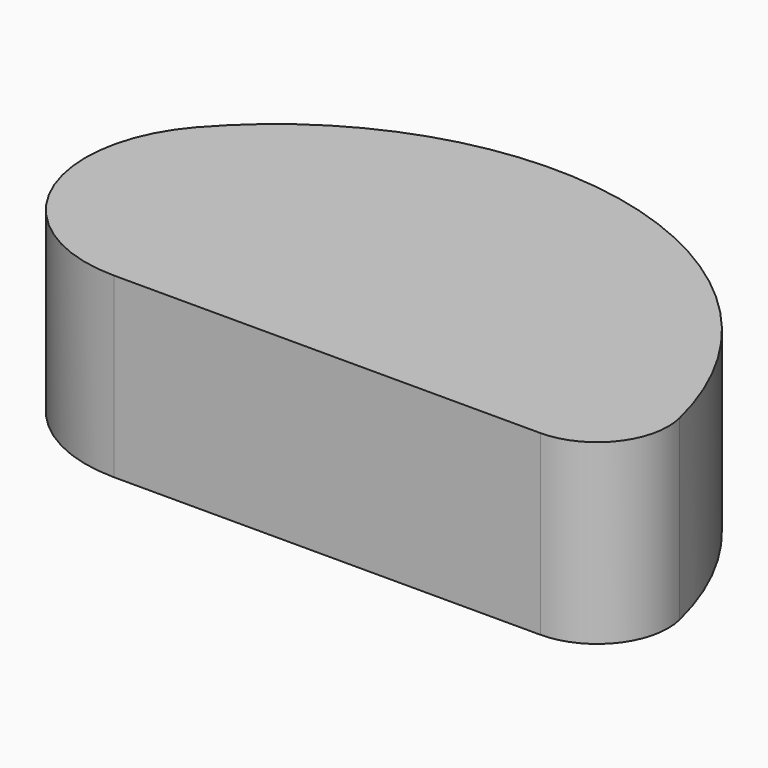
from build123d import *

# Parameters (mm, degrees)
F1_DEPTH = 25


with BuildPart() as f1:
    # F0 (on Top) → F1 (new body)
    with BuildSketch(Plane.XY):
        with BuildLine():
            Line((-60, 0), (0, 0))
            ThreePointArc((0, 0), (7.851876, 3.807421), (9.724673, 12.330392))
            ThreePointArc((9.724673, 12.330392), (-26.33928, 48.586292), (-75.085833, 33.130789))
            ThreePointArc((-75.085833, 33.130789), (-78.201865, 11.71193), (-60, 0))
        make_face()
    extrude(amount=F1_DEPTH)


solid = f1.part
